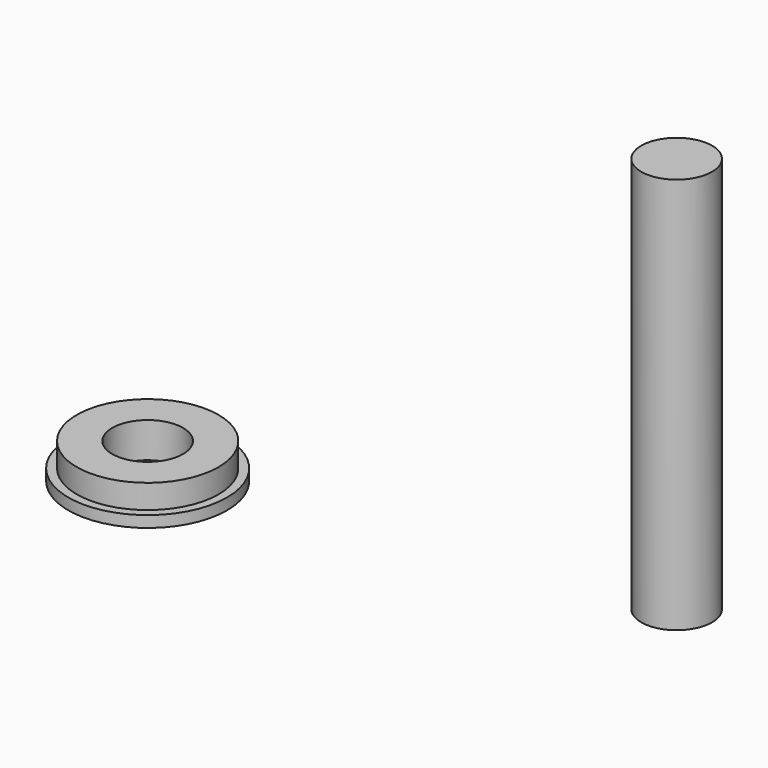
from build123d import *

# Parameters (mm, degrees)
F0_R     = 5.334
F0_R_2   = 2.38125
F1_DEPTH = 0.762
F2_R     = 4.7625
F2_R_2   = 2.38125
F3_DEPTH = 2.3749
F4_R     = 2.38125
F5_DEPTH = 26.67


with BuildPart() as f1:
    # F0 (on Top) → F1 (new body)
    with BuildSketch(Plane.XY):
        Circle(F0_R)
        Circle(F0_R_2, mode=Mode.SUBTRACT)
    extrude(amount=F1_DEPTH)

    # F2 (on Top) → F3 (join)
    with BuildSketch(Plane.XY):
        Circle(F2_R)
        Circle(F2_R_2, mode=Mode.SUBTRACT)
    extrude(amount=F3_DEPTH)


with BuildPart() as f5:
    # F4 (on Top) → F5 (new body)
    with BuildSketch(Plane.XY):
        with Locations((30.793037, 5.968314)):
            Circle(F4_R)
    extrude(amount=F5_DEPTH)


solid = Compound([f1.part, f5.part])
